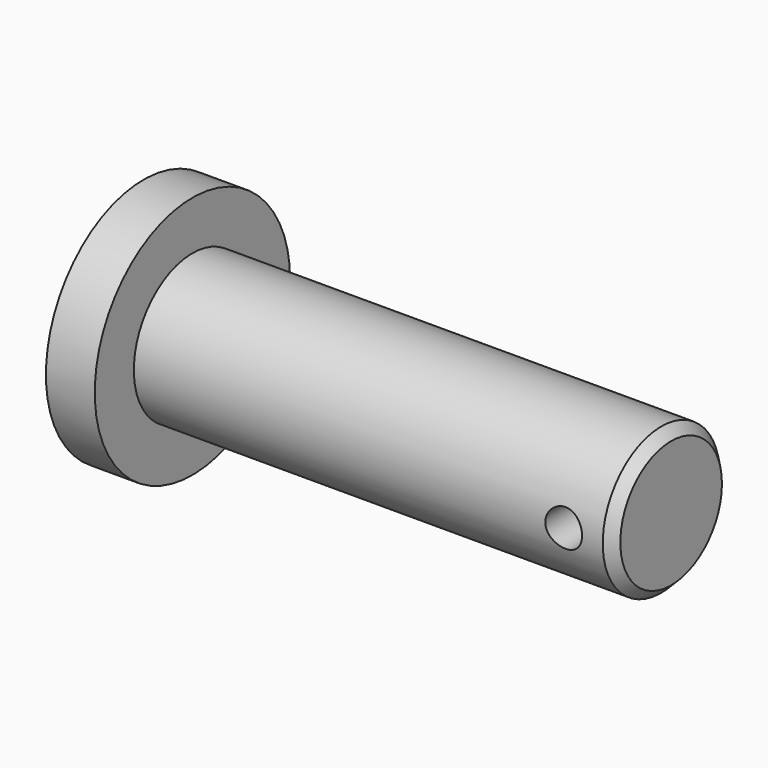
from build123d import *

# Parameters (mm, degrees)
F0_R          = 9.525
F1_DEPTH      = 62.23
F2_R          = 2.3876
F3_DEPTH      = 9.526
F3_DEPTH_BACK = 9.526
F4_R          = 15.875
F5_DEPTH      = 6.35
F6_SIZE2      = 1.27
F6_SIZE       = 1.27


with BuildPart() as f1:
    # F0 (on Right) → F1 (new body)
    with BuildSketch(Plane.YZ):
        Circle(F0_R)
    extrude(amount=F1_DEPTH)

    # F2 (on Front) → F3 (cut, two sides)
    with BuildSketch(Plane.XZ) as f3_sk:
        with Locations((55.88, 0)):
            Circle(F2_R)
    extrude(amount=-F3_DEPTH, mode=Mode.SUBTRACT)
    extrude(f3_sk.sketch, amount=F3_DEPTH_BACK, mode=Mode.SUBTRACT)

    # F4 (on Right) → F5 (join)
    with BuildSketch(Plane.YZ):
        Circle(F4_R)
    extrude(amount=-F5_DEPTH)

    # F6
    f6_edges = [f1.edges().sort_by_distance(p)[0] for p in [
        (62.23, -9.525, 0),
    ]]
    chamfer(f6_edges, length=F6_SIZE, length2=F6_SIZE2)


solid = f1.part
